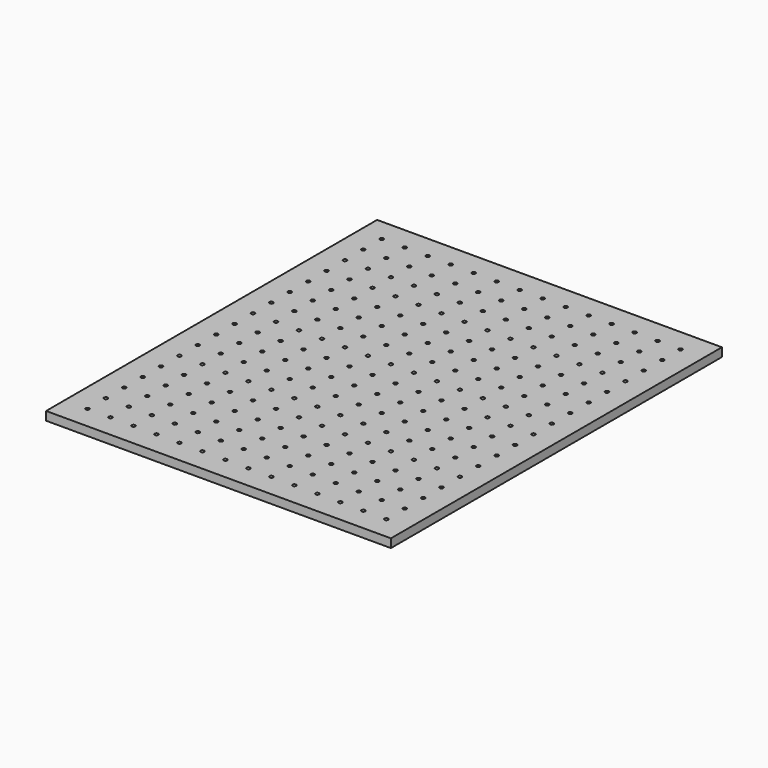
from build123d import *

# Parameters (mm, degrees)
F0_W     = 762
F0_H     = 914.4
F0_R     = 4.03225
F1_DEPTH = 19.05


with BuildPart() as f1:
    # F0 (on Top) → F1 (new body)
    with BuildSketch(Plane.XY):
        Rectangle(F0_W, F0_H)
        with Locations((-330.2, -406.4)):
            Circle(F0_R, mode=Mode.SUBTRACT)
        with Locations((-330.2, -355.6)):
            Circle(F0_R, mode=Mode.SUBTRACT)
        with Locations((-279.4, -406.4)):
            Circle(F0_R, mode=Mode.SUBTRACT)
        with Locations((-228.6, -406.4)):
            Circle(F0_R, mode=Mode.SUBTRACT)
        with Locations((-279.4, -355.6)):
            Circle(F0_R, mode=Mode.SUBTRACT)
        with Locations((-228.6, -355.6)):
            Circle(F0_R, mode=Mode.SUBTRACT)
        with Locations((-330.2, -304.8)):
            Circle(F0_R, mode=Mode.SUBTRACT)
        with Locations((-330.2, -254)):
            Circle(F0_R, mode=Mode.SUBTRACT)
        with Locations((-279.4, -304.8)):
            Circle(F0_R, mode=Mode.SUBTRACT)
        with Locations((-228.6, -304.8)):
            Circle(F0_R, mode=Mode.SUBTRACT)
        with Locations((-279.4, -254)):
            Circle(F0_R, mode=Mode.SUBTRACT)
        with Locations((-228.6, -254)):
            Circle(F0_R, mode=Mode.SUBTRACT)
        with Locations((-177.8, -406.4)):
            Circle(F0_R, mode=Mode.SUBTRACT)
        with Locations((-127, -406.4)):
            Circle(F0_R, mode=Mode.SUBTRACT)
        with Locations((-177.8, -355.6)):
            Circle(F0_R, mode=Mode.SUBTRACT)
        with Locations((-127, -355.6)):
            Circle(F0_R, mode=Mode.SUBTRACT)
        with Locations((-76.2, -406.4)):
            Circle(F0_R, mode=Mode.SUBTRACT)
        with Locations((-25.4, -406.4)):
            Circle(F0_R, mode=Mode.SUBTRACT)
        with Locations((-76.2, -355.6)):
            Circle(F0_R, mode=Mode.SUBTRACT)
        with Locations((-25.4, -355.6)):
            Circle(F0_R, mode=Mode.SUBTRACT)
        with Locations((-177.8, -304.8)):
            Circle(F0_R, mode=Mode.SUBTRACT)
        with Locations((-127, -304.8)):
            Circle(F0_R, mode=Mode.SUBTRACT)
        with Locations((-177.8, -254)):
            Circle(F0_R, mode=Mode.SUBTRACT)
        with Locations((-127, -254)):
            Circle(F0_R, mode=Mode.SUBTRACT)
        with Locations((-76.2, -304.8)):
            Circle(F0_R, mode=Mode.SUBTRACT)
        with Locations((-25.4, -304.8)):
            Circle(F0_R, mode=Mode.SUBTRACT)
        with Locations((-76.2, -254)):
            Circle(F0_R, mode=Mode.SUBTRACT)
        with Locations((-25.4, -254)):
            Circle(F0_R, mode=Mode.SUBTRACT)
        with Locations((-330.2, -203.2)):
            Circle(F0_R, mode=Mode.SUBTRACT)
        with Locations((-330.2, -152.4)):
            Circle(F0_R, mode=Mode.SUBTRACT)
        with Locations((-279.4, -203.2)):
            Circle(F0_R, mode=Mode.SUBTRACT)
        with Locations((-228.6, -203.2)):
            Circle(F0_R, mode=Mode.SUBTRACT)
        with Locations((-279.4, -152.4)):
            Circle(F0_R, mode=Mode.SUBTRACT)
        with Locations((-228.6, -152.4)):
            Circle(F0_R, mode=Mode.SUBTRACT)
        with Locations((-330.2, -101.6)):
            Circle(F0_R, mode=Mode.SUBTRACT)
        with Locations((-330.2, -50.8)):
            Circle(F0_R, mode=Mode.SUBTRACT)
        with Locations((-279.4, -101.6)):
            Circle(F0_R, mode=Mode.SUBTRACT)
        with Locations((-228.6, -101.6)):
            Circle(F0_R, mode=Mode.SUBTRACT)
        with Locations((-279.4, -50.8)):
            Circle(F0_R, mode=Mode.SUBTRACT)
        with Locations((-228.6, -50.8)):
            Circle(F0_R, mode=Mode.SUBTRACT)
        with Locations((-177.8, -203.2)):
            Circle(F0_R, mode=Mode.SUBTRACT)
        with Locations((-127, -203.2)):
            Circle(F0_R, mode=Mode.SUBTRACT)
        with Locations((-177.8, -152.4)):
            Circle(F0_R, mode=Mode.SUBTRACT)
        with Locations((-127, -152.4)):
            Circle(F0_R, mode=Mode.SUBTRACT)
        with Locations((-76.2, -203.2)):
            Circle(F0_R, mode=Mode.SUBTRACT)
        with Locations((-25.4, -203.2)):
            Circle(F0_R, mode=Mode.SUBTRACT)
        with Locations((-76.2, -152.4)):
            Circle(F0_R, mode=Mode.SUBTRACT)
        with Locations((-25.4, -152.4)):
            Circle(F0_R, mode=Mode.SUBTRACT)
        with Locations((-177.8, -101.6)):
            Circle(F0_R, mode=Mode.SUBTRACT)
        with Locations((-127, -101.6)):
            Circle(F0_R, mode=Mode.SUBTRACT)
        with Locations((-177.8, -50.8)):
            Circle(F0_R, mode=Mode.SUBTRACT)
        with Locations((-127, -50.8)):
            Circle(F0_R, mode=Mode.SUBTRACT)
        with Locations((-76.2, -101.6)):
            Circle(F0_R, mode=Mode.SUBTRACT)
        with Locations((-25.4, -101.6)):
            Circle(F0_R, mode=Mode.SUBTRACT)
        with Locations((-76.2, -50.8)):
            Circle(F0_R, mode=Mode.SUBTRACT)
        with Locations((-25.4, -50.8)):
            Circle(F0_R, mode=Mode.SUBTRACT)
        with Locations((25.4, -406.4)):
            Circle(F0_R, mode=Mode.SUBTRACT)
        with Locations((76.2, -406.4)):
            Circle(F0_R, mode=Mode.SUBTRACT)
        with Locations((25.4, -355.6)):
            Circle(F0_R, mode=Mode.SUBTRACT)
        with Locations((76.2, -355.6)):
            Circle(F0_R, mode=Mode.SUBTRACT)
        with Locations((127, -406.4)):
            Circle(F0_R, mode=Mode.SUBTRACT)
        with Locations((177.8, -406.4)):
            Circle(F0_R, mode=Mode.SUBTRACT)
        with Locations((127, -355.6)):
            Circle(F0_R, mode=Mode.SUBTRACT)
        with Locations((177.8, -355.6)):
            Circle(F0_R, mode=Mode.SUBTRACT)
        with Locations((25.4, -304.8)):
            Circle(F0_R, mode=Mode.SUBTRACT)
        with Locations((76.2, -304.8)):
            Circle(F0_R, mode=Mode.SUBTRACT)
        with Locations((25.4, -254)):
            Circle(F0_R, mode=Mode.SUBTRACT)
        with Locations((76.2, -254)):
            Circle(F0_R, mode=Mode.SUBTRACT)
        with Locations((127, -304.8)):
            Circle(F0_R, mode=Mode.SUBTRACT)
        with Locations((177.8, -304.8)):
            Circle(F0_R, mode=Mode.SUBTRACT)
        with Locations((127, -254)):
            Circle(F0_R, mode=Mode.SUBTRACT)
        with Locations((177.8, -254)):
            Circle(F0_R, mode=Mode.SUBTRACT)
        with Locations((228.6, -406.4)):
            Circle(F0_R, mode=Mode.SUBTRACT)
        with Locations((279.4, -406.4)):
            Circle(F0_R, mode=Mode.SUBTRACT)
        with Locations((228.6, -355.6)):
            Circle(F0_R, mode=Mode.SUBTRACT)
        with Locations((279.4, -355.6)):
            Circle(F0_R, mode=Mode.SUBTRACT)
        with Locations((330.2, -406.4)):
            Circle(F0_R, mode=Mode.SUBTRACT)
        with Locations((330.2, -355.6)):
            Circle(F0_R, mode=Mode.SUBTRACT)
        with Locations((228.6, -304.8)):
            Circle(F0_R, mode=Mode.SUBTRACT)
        with Locations((279.4, -304.8)):
            Circle(F0_R, mode=Mode.SUBTRACT)
        with Locations((228.6, -254)):
            Circle(F0_R, mode=Mode.SUBTRACT)
        with Locations((279.4, -254)):
            Circle(F0_R, mode=Mode.SUBTRACT)
        with Locations((330.2, -304.8)):
            Circle(F0_R, mode=Mode.SUBTRACT)
        with Locations((330.2, -254)):
            Circle(F0_R, mode=Mode.SUBTRACT)
        with Locations((25.4, -203.2)):
            Circle(F0_R, mode=Mode.SUBTRACT)
        with Locations((76.2, -203.2)):
            Circle(F0_R, mode=Mode.SUBTRACT)
        with Locations((25.4, -152.4)):
            Circle(F0_R, mode=Mode.SUBTRACT)
        with Locations((76.2, -152.4)):
            Circle(F0_R, mode=Mode.SUBTRACT)
        with Locations((127, -203.2)):
            Circle(F0_R, mode=Mode.SUBTRACT)
        with Locations((177.8, -203.2)):
            Circle(F0_R, mode=Mode.SUBTRACT)
        with Locations((127, -152.4)):
            Circle(F0_R, mode=Mode.SUBTRACT)
        with Locations((177.8, -152.4)):
            Circle(F0_R, mode=Mode.SUBTRACT)
        with Locations((25.4, -101.6)):
            Circle(F0_R, mode=Mode.SUBTRACT)
        with Locations((76.2, -101.6)):
            Circle(F0_R, mode=Mode.SUBTRACT)
        with Locations((25.4, -50.8)):
            Circle(F0_R, mode=Mode.SUBTRACT)
        with Locations((76.2, -50.8)):
            Circle(F0_R, mode=Mode.SUBTRACT)
        with Locations((127, -101.6)):
            Circle(F0_R, mode=Mode.SUBTRACT)
        with Locations((177.8, -101.6)):
            Circle(F0_R, mode=Mode.SUBTRACT)
        with Locations((127, -50.8)):
            Circle(F0_R, mode=Mode.SUBTRACT)
        with Locations((177.8, -50.8)):
            Circle(F0_R, mode=Mode.SUBTRACT)
        with Locations((228.6, -203.2)):
            Circle(F0_R, mode=Mode.SUBTRACT)
        with Locations((279.4, -203.2)):
            Circle(F0_R, mode=Mode.SUBTRACT)
        with Locations((228.6, -152.4)):
            Circle(F0_R, mode=Mode.SUBTRACT)
        with Locations((279.4, -152.4)):
            Circle(F0_R, mode=Mode.SUBTRACT)
        with Locations((330.2, -203.2)):
            Circle(F0_R, mode=Mode.SUBTRACT)
        with Locations((330.2, -152.4)):
            Circle(F0_R, mode=Mode.SUBTRACT)
        with Locations((228.6, -101.6)):
            Circle(F0_R, mode=Mode.SUBTRACT)
        with Locations((279.4, -101.6)):
            Circle(F0_R, mode=Mode.SUBTRACT)
        with Locations((228.6, -50.8)):
            Circle(F0_R, mode=Mode.SUBTRACT)
        with Locations((279.4, -50.8)):
            Circle(F0_R, mode=Mode.SUBTRACT)
        with Locations((330.2, -101.6)):
            Circle(F0_R, mode=Mode.SUBTRACT)
        with Locations((330.2, -50.8)):
            Circle(F0_R, mode=Mode.SUBTRACT)
        with Locations((-330.2, 0)):
            Circle(F0_R, mode=Mode.SUBTRACT)
        with Locations((-330.2, 50.8)):
            Circle(F0_R, mode=Mode.SUBTRACT)
        with Locations((-330.2, 101.6)):
            Circle(F0_R, mode=Mode.SUBTRACT)
        with Locations((-279.4, 0)):
            Circle(F0_R, mode=Mode.SUBTRACT)
        with Locations((-279.4, 50.8)):
            Circle(F0_R, mode=Mode.SUBTRACT)
        with Locations((-228.6, 0)):
            Circle(F0_R, mode=Mode.SUBTRACT)
        with Locations((-228.6, 50.8)):
            Circle(F0_R, mode=Mode.SUBTRACT)
        with Locations((-279.4, 101.6)):
            Circle(F0_R, mode=Mode.SUBTRACT)
        with Locations((-228.6, 101.6)):
            Circle(F0_R, mode=Mode.SUBTRACT)
        with Locations((-330.2, 152.4)):
            Circle(F0_R, mode=Mode.SUBTRACT)
        with Locations((-330.2, 203.2)):
            Circle(F0_R, mode=Mode.SUBTRACT)
        with Locations((-279.4, 152.4)):
            Circle(F0_R, mode=Mode.SUBTRACT)
        with Locations((-228.6, 152.4)):
            Circle(F0_R, mode=Mode.SUBTRACT)
        with Locations((-279.4, 203.2)):
            Circle(F0_R, mode=Mode.SUBTRACT)
        with Locations((-228.6, 203.2)):
            Circle(F0_R, mode=Mode.SUBTRACT)
        with Locations((-177.8, 0)):
            Circle(F0_R, mode=Mode.SUBTRACT)
        with Locations((-177.8, 50.8)):
            Circle(F0_R, mode=Mode.SUBTRACT)
        with Locations((-127, 0)):
            Circle(F0_R, mode=Mode.SUBTRACT)
        with Locations((-127, 50.8)):
            Circle(F0_R, mode=Mode.SUBTRACT)
        with Locations((-177.8, 101.6)):
            Circle(F0_R, mode=Mode.SUBTRACT)
        with Locations((-127, 101.6)):
            Circle(F0_R, mode=Mode.SUBTRACT)
        with Locations((-76.2, 0)):
            Circle(F0_R, mode=Mode.SUBTRACT)
        with Locations((-76.2, 50.8)):
            Circle(F0_R, mode=Mode.SUBTRACT)
        with Locations((-25.4, 0)):
            Circle(F0_R, mode=Mode.SUBTRACT)
        with Locations((-25.4, 50.8)):
            Circle(F0_R, mode=Mode.SUBTRACT)
        with Locations((-76.2, 101.6)):
            Circle(F0_R, mode=Mode.SUBTRACT)
        with Locations((-25.4, 101.6)):
            Circle(F0_R, mode=Mode.SUBTRACT)
        with Locations((-177.8, 152.4)):
            Circle(F0_R, mode=Mode.SUBTRACT)
        with Locations((-127, 152.4)):
            Circle(F0_R, mode=Mode.SUBTRACT)
        with Locations((-177.8, 203.2)):
            Circle(F0_R, mode=Mode.SUBTRACT)
        with Locations((-127, 203.2)):
            Circle(F0_R, mode=Mode.SUBTRACT)
        with Locations((-76.2, 152.4)):
            Circle(F0_R, mode=Mode.SUBTRACT)
        with Locations((-25.4, 152.4)):
            Circle(F0_R, mode=Mode.SUBTRACT)
        with Locations((-76.2, 203.2)):
            Circle(F0_R, mode=Mode.SUBTRACT)
        with Locations((-25.4, 203.2)):
            Circle(F0_R, mode=Mode.SUBTRACT)
        with Locations((-330.2, 254)):
            Circle(F0_R, mode=Mode.SUBTRACT)
        with Locations((-330.2, 304.8)):
            Circle(F0_R, mode=Mode.SUBTRACT)
        with Locations((-279.4, 254)):
            Circle(F0_R, mode=Mode.SUBTRACT)
        with Locations((-228.6, 254)):
            Circle(F0_R, mode=Mode.SUBTRACT)
        with Locations((-279.4, 304.8)):
            Circle(F0_R, mode=Mode.SUBTRACT)
        with Locations((-228.6, 304.8)):
            Circle(F0_R, mode=Mode.SUBTRACT)
        with Locations((-330.2, 355.6)):
            Circle(F0_R, mode=Mode.SUBTRACT)
        with Locations((-330.2, 406.4)):
            Circle(F0_R, mode=Mode.SUBTRACT)
        with Locations((-279.4, 355.6)):
            Circle(F0_R, mode=Mode.SUBTRACT)
        with Locations((-228.6, 355.6)):
            Circle(F0_R, mode=Mode.SUBTRACT)
        with Locations((-279.4, 406.4)):
            Circle(F0_R, mode=Mode.SUBTRACT)
        with Locations((-228.6, 406.4)):
            Circle(F0_R, mode=Mode.SUBTRACT)
        with Locations((-177.8, 254)):
            Circle(F0_R, mode=Mode.SUBTRACT)
        with Locations((-127, 254)):
            Circle(F0_R, mode=Mode.SUBTRACT)
        with Locations((-177.8, 304.8)):
            Circle(F0_R, mode=Mode.SUBTRACT)
        with Locations((-127, 304.8)):
            Circle(F0_R, mode=Mode.SUBTRACT)
        with Locations((-76.2, 254)):
            Circle(F0_R, mode=Mode.SUBTRACT)
        with Locations((-25.4, 254)):
            Circle(F0_R, mode=Mode.SUBTRACT)
        with Locations((-76.2, 304.8)):
            Circle(F0_R, mode=Mode.SUBTRACT)
        with Locations((-25.4, 304.8)):
            Circle(F0_R, mode=Mode.SUBTRACT)
        with Locations((-177.8, 354.312271)):
            Circle(F0_R, mode=Mode.SUBTRACT)
        with Locations((-127, 355.6)):
            Circle(F0_R, mode=Mode.SUBTRACT)
        with Locations((-177.8, 406.4)):
            Circle(F0_R, mode=Mode.SUBTRACT)
        with Locations((-127, 406.4)):
            Circle(F0_R, mode=Mode.SUBTRACT)
        with Locations((-76.2, 355.319768)):
            Circle(F0_R, mode=Mode.SUBTRACT)
        with Locations((-25.4, 355.6)):
            Circle(F0_R, mode=Mode.SUBTRACT)
        with Locations((-76.2, 406.4)):
            Circle(F0_R, mode=Mode.SUBTRACT)
        with Locations((-25.4, 406.4)):
            Circle(F0_R, mode=Mode.SUBTRACT)
        with Locations((25.4, 0)):
            Circle(F0_R, mode=Mode.SUBTRACT)
        with Locations((25.4, 50.8)):
            Circle(F0_R, mode=Mode.SUBTRACT)
        with Locations((76.2, 0)):
            Circle(F0_R, mode=Mode.SUBTRACT)
        with Locations((76.2, 50.8)):
            Circle(F0_R, mode=Mode.SUBTRACT)
        with Locations((25.4, 101.6)):
            Circle(F0_R, mode=Mode.SUBTRACT)
        with Locations((76.2, 101.6)):
            Circle(F0_R, mode=Mode.SUBTRACT)
        with Locations((127, 0)):
            Circle(F0_R, mode=Mode.SUBTRACT)
        with Locations((127, 50.8)):
            Circle(F0_R, mode=Mode.SUBTRACT)
        with Locations((177.8, 0)):
            Circle(F0_R, mode=Mode.SUBTRACT)
        with Locations((177.8, 50.8)):
            Circle(F0_R, mode=Mode.SUBTRACT)
        with Locations((127, 101.6)):
            Circle(F0_R, mode=Mode.SUBTRACT)
        with Locations((177.8, 101.6)):
            Circle(F0_R, mode=Mode.SUBTRACT)
        with Locations((25.4, 152.4)):
            Circle(F0_R, mode=Mode.SUBTRACT)
        with Locations((76.2, 152.4)):
            Circle(F0_R, mode=Mode.SUBTRACT)
        with Locations((25.4, 203.2)):
            Circle(F0_R, mode=Mode.SUBTRACT)
        with Locations((76.2, 203.2)):
            Circle(F0_R, mode=Mode.SUBTRACT)
        with Locations((127, 152.4)):
            Circle(F0_R, mode=Mode.SUBTRACT)
        with Locations((177.8, 152.4)):
            Circle(F0_R, mode=Mode.SUBTRACT)
        with Locations((127, 203.2)):
            Circle(F0_R, mode=Mode.SUBTRACT)
        with Locations((177.8, 203.2)):
            Circle(F0_R, mode=Mode.SUBTRACT)
        with Locations((228.6, 0)):
            Circle(F0_R, mode=Mode.SUBTRACT)
        with Locations((228.6, 50.8)):
            Circle(F0_R, mode=Mode.SUBTRACT)
        with Locations((279.4, 0)):
            Circle(F0_R, mode=Mode.SUBTRACT)
        with Locations((279.4, 50.8)):
            Circle(F0_R, mode=Mode.SUBTRACT)
        with Locations((228.6, 101.6)):
            Circle(F0_R, mode=Mode.SUBTRACT)
        with Locations((279.4, 101.6)):
            Circle(F0_R, mode=Mode.SUBTRACT)
        with Locations((330.2, 0)):
            Circle(F0_R, mode=Mode.SUBTRACT)
        with Locations((330.2, 50.8)):
            Circle(F0_R, mode=Mode.SUBTRACT)
        with Locations((330.2, 101.6)):
            Circle(F0_R, mode=Mode.SUBTRACT)
        with Locations((228.6, 152.4)):
            Circle(F0_R, mode=Mode.SUBTRACT)
        with Locations((279.4, 152.4)):
            Circle(F0_R, mode=Mode.SUBTRACT)
        with Locations((228.6, 203.2)):
            Circle(F0_R, mode=Mode.SUBTRACT)
        with Locations((279.4, 203.2)):
            Circle(F0_R, mode=Mode.SUBTRACT)
        with Locations((330.2, 152.4)):
            Circle(F0_R, mode=Mode.SUBTRACT)
        with Locations((330.2, 203.2)):
            Circle(F0_R, mode=Mode.SUBTRACT)
        with Locations((25.4, 254)):
            Circle(F0_R, mode=Mode.SUBTRACT)
        with Locations((76.2, 254)):
            Circle(F0_R, mode=Mode.SUBTRACT)
        with Locations((25.4, 304.8)):
            Circle(F0_R, mode=Mode.SUBTRACT)
        with Locations((76.2, 304.8)):
            Circle(F0_R, mode=Mode.SUBTRACT)
        with Locations((127, 254)):
            Circle(F0_R, mode=Mode.SUBTRACT)
        with Locations((177.8, 254)):
            Circle(F0_R, mode=Mode.SUBTRACT)
        with Locations((127, 304.8)):
            Circle(F0_R, mode=Mode.SUBTRACT)
        with Locations((177.8, 304.8)):
            Circle(F0_R, mode=Mode.SUBTRACT)
        with Locations((25.4, 355.6)):
            Circle(F0_R, mode=Mode.SUBTRACT)
        with Locations((76.2, 355.6)):
            Circle(F0_R, mode=Mode.SUBTRACT)
        with Locations((25.4, 406.4)):
            Circle(F0_R, mode=Mode.SUBTRACT)
        with Locations((76.2, 406.4)):
            Circle(F0_R, mode=Mode.SUBTRACT)
        with Locations((127, 355.6)):
            Circle(F0_R, mode=Mode.SUBTRACT)
        with Locations((177.8, 355.6)):
            Circle(F0_R, mode=Mode.SUBTRACT)
        with Locations((127, 406.4)):
            Circle(F0_R, mode=Mode.SUBTRACT)
        with Locations((177.8, 406.4)):
            Circle(F0_R, mode=Mode.SUBTRACT)
        with Locations((228.6, 254)):
            Circle(F0_R, mode=Mode.SUBTRACT)
        with Locations((279.4, 254)):
            Circle(F0_R, mode=Mode.SUBTRACT)
        with Locations((228.6, 304.8)):
            Circle(F0_R, mode=Mode.SUBTRACT)
        with Locations((279.4, 304.8)):
            Circle(F0_R, mode=Mode.SUBTRACT)
        with Locations((330.2, 254)):
            Circle(F0_R, mode=Mode.SUBTRACT)
        with Locations((330.2, 304.8)):
            Circle(F0_R, mode=Mode.SUBTRACT)
        with Locations((228.6, 355.6)):
            Circle(F0_R, mode=Mode.SUBTRACT)
        with Locations((279.4, 355.6)):
            Circle(F0_R, mode=Mode.SUBTRACT)
        with Locations((228.6, 406.4)):
            Circle(F0_R, mode=Mode.SUBTRACT)
        with Locations((279.4, 406.4)):
            Circle(F0_R, mode=Mode.SUBTRACT)
        with Locations((330.2, 355.6)):
            Circle(F0_R, mode=Mode.SUBTRACT)
        with Locations((330.2, 406.4)):
            Circle(F0_R, mode=Mode.SUBTRACT)
    extrude(amount=F1_DEPTH)


solid = f1.part
